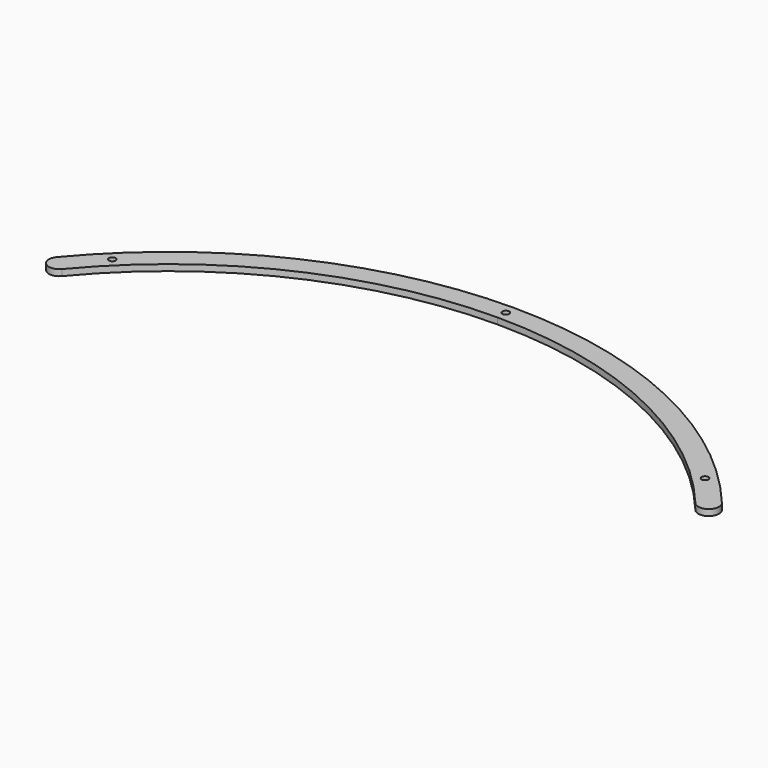
from build123d import *

# Parameters (mm, degrees)
PAD014_DEPTH                        = 3
SKETCH055_R                         = 1.65
POCKET019_DEPTH                     = 364.282338
POCKET019_DEPTH_BACK                = 367.282338
BODY001003005003003_PLACEMENT_ANGLE = 60
CLONE021_PLACEMENT_ANGLE            = 60


with BuildPart() as part:
    # Sketch052 → Pad014 (new body)
    with BuildSketch(Plane.XY):
        with BuildLine():
            ThreePointArc((152.959511, 127.101705), (84.480895, 180.040089), (0, 198.875477))
            Line((0, 198.875477), (0, 208.875477))
            ThreePointArc((160.650731, 133.492724), (88.728824, 189.092995), (0, 208.875477))
            ThreePointArc((152.959511, 127.101705), (160.000631, 126.451604), (160.650731, 133.492724))
        make_face()
    pad014 = extrude(amount=PAD014_DEPTH)

    # Sketch055 → Pocket019 (cut, two sides)
    with BuildSketch(Plane.XY) as pocket019_sk:
        with Locations((143.11, 145.205847)):
            Circle(SKETCH055_R)
        with BuildLine():
            Line((0, 202.225477), (0, 205.525477))
            ThreePointArc((0, 202.225477), (1.65, 203.875477), (0, 205.525477))
        make_face()
    pocket019 = extrude(amount=-POCKET019_DEPTH, mode=Mode.SUBTRACT) + extrude(pocket019_sk.sketch, amount=POCKET019_DEPTH_BACK, mode=Mode.SUBTRACT)

    # Mirrored019: Pad014, Pocket019 across Sketch052 V_Axis
    add(pad014.mirror(Plane(origin=(0, 0, 0), x_dir=(0, 0, 1), z_dir=(1, 0, 0))))
    add(pocket019.mirror(Plane(origin=(0, 0, 0), x_dir=(0, 0, 1), z_dir=(1, 0, 0))), mode=Mode.SUBTRACT)


with BuildPart() as part_1:
    # Body001003005003003 placement: moved
    add(part.part.rotate(Axis((0, 0, 0), (0, 0, 1)), BODY001003005003003_PLACEMENT_ANGLE))


with BuildPart() as part_2:
    # Clone021 placement: moved
    add(part_1.part.moved(Location((0, 62, 0))).rotate(Axis((0, 62, 0), (0, 0, -1)), CLONE021_PLACEMENT_ANGLE))


solid = part_2.part
